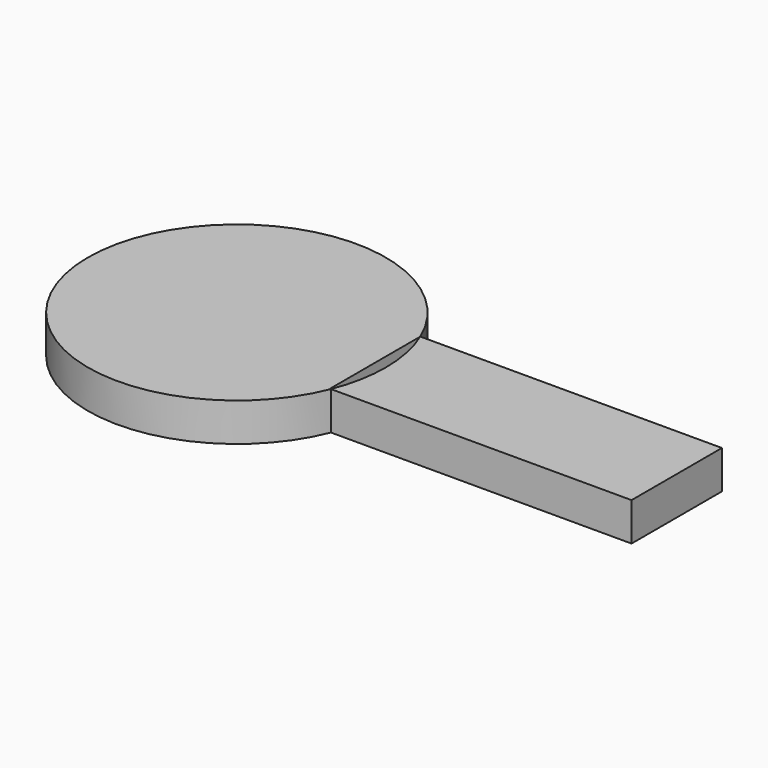
from build123d import *

# Parameters (mm, degrees)
F1_DEPTH = 5


with BuildPart() as f1:
    # F0 (on Top) → F1 (new body)
    with BuildSketch(Plane.XY):
        with BuildLine():
            Line((17.94765, -7.223471), (17.94765, 7.538788))
            ThreePointArc((17.94765, 7.538788), (-19.46593, -0.170382), (18.076862, -7.223471))
            Line((18.076862, -7.223471), (17.94765, -7.223471))
        make_face()
        with BuildLine():
            ThreePointArc((17.94765, 7.538788), (19.083141, 3.845152), (19.466676, 0))
            ThreePointArc((19.466676, 0), (19.116065, -3.677979), (18.076862, -7.223471))
            Line((18.076862, -7.223471), (57.362866, -7.223471))
            Line((57.362866, -7.223471), (57.362866, 7.538788))
            Line((57.362866, 7.538788), (17.94765, 7.538788))
        make_face()
    extrude(amount=F1_DEPTH)


solid = f1.part
